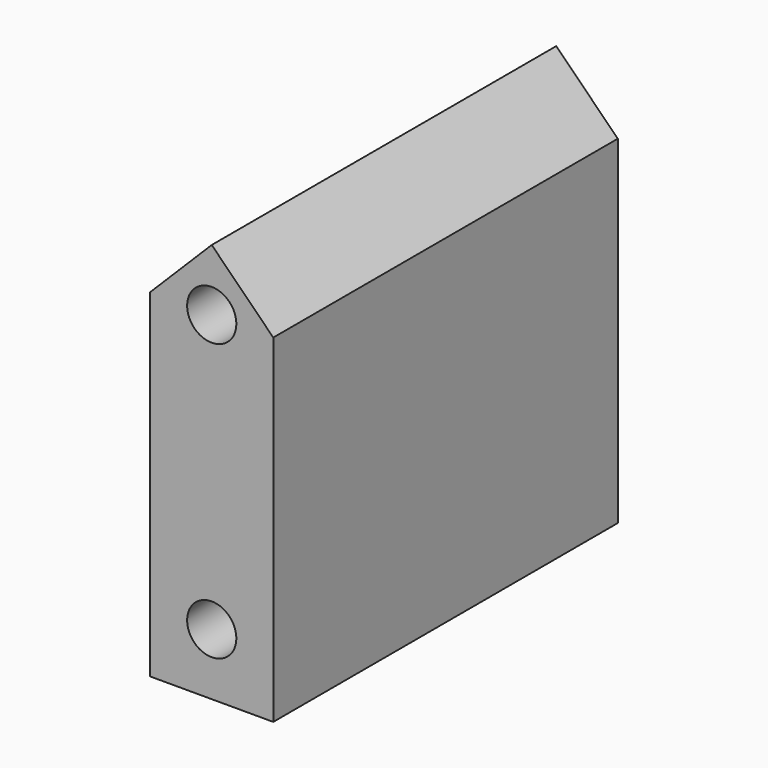
from build123d import *

# Parameters (mm, degrees)
F1_DEPTH  = 70
F2_R      = 4
F3_DEPTH  = 10
F4_R      = 4
F5_DEPTH  = 10
F6_R      = 4
F7_DEPTH  = 10
F8_R      = 4
F9_DEPTH  = 10
F10_R     = 4
F11_DEPTH = 10


with BuildPart() as f1:
    # F0 (on Front) → F1 (new body)
    with BuildSketch(Plane.XZ):
        Polygon((0, 25.5), (-10, 15.5), (-10, -39.5), (10, -39.5), (10, 15.5), align=None)
    extrude(amount=F1_DEPTH)

    # F2 (on face) → F3 (cut)
    with BuildSketch(Plane.XZ.offset(70)):
        with Locations((0, -29.5)):
            Circle(F2_R)
    extrude(amount=-F3_DEPTH, mode=Mode.SUBTRACT)

    # F4 (on face) → F5 (cut)
    with BuildSketch(Plane.XZ.offset(70)):
        with Locations((0, 15.5)):
            Circle(F4_R)
    extrude(amount=-F5_DEPTH, mode=Mode.SUBTRACT)

    # F6 (on face) → F7 (cut)
    with BuildSketch(Plane(origin=(0, 0, 0), x_dir=(-1, 0, 0), z_dir=(0, 1, 0))):
        with Locations((0, -29.5)):
            Circle(F6_R)
    extrude(amount=-F7_DEPTH, mode=Mode.SUBTRACT)

    # F8 (on face) → F9 (cut)
    with BuildSketch(Plane(origin=(0, 0, 0), x_dir=(-1, 0, 0), z_dir=(0, 1, 0))):
        with Locations((0, 15.5)):
            Circle(F8_R)
    extrude(amount=-F9_DEPTH, mode=Mode.SUBTRACT)

    # F10 (on face) → F11 (cut)
    with BuildSketch(Plane(origin=(0, 0, -39.5), x_dir=(1, 0, 0), z_dir=(0, 0, -1))):
        with Locations((0, 35)):
            Circle(F10_R)
    extrude(amount=-F11_DEPTH, mode=Mode.SUBTRACT)


solid = f1.part
